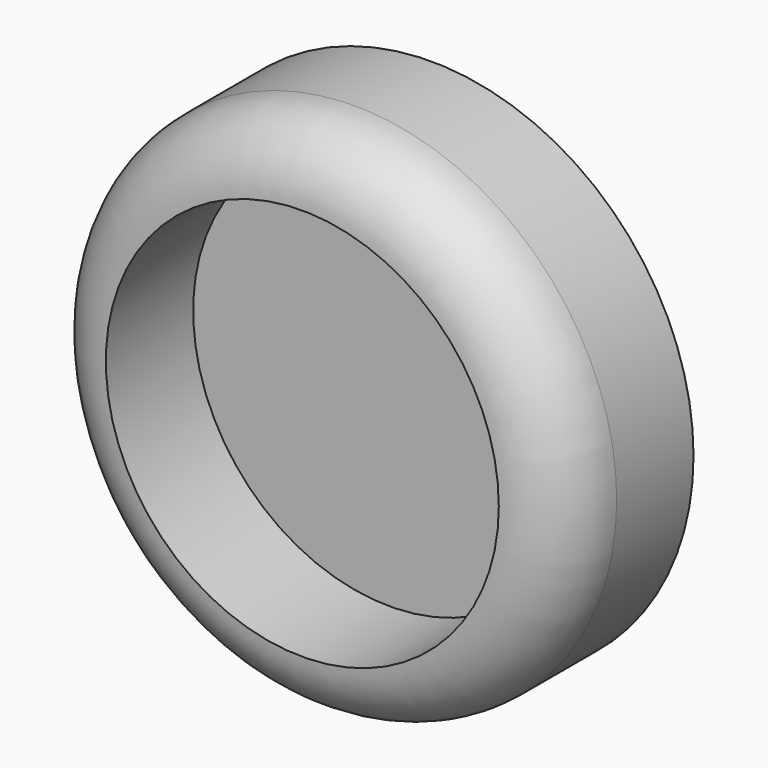
from build123d import *

# Parameters (mm, degrees)
F0_R     = 60
F1_DEPTH = 25
F2_DEPTH = 25
F3_DEPTH = 37
F4_R     = 15
F5_R     = 45
F6_DEPTH = 25


with BuildPart() as f1:
    # F0 (on Front) → F1 (new body)
    with BuildSketch(Plane.XZ):
        with Locations((20.5037463456, 3.3097660635)):
            Circle(F0_R)
    extrude(amount=F1_DEPTH)

    # F2 (add): faces of the model
    f2_faces = [f1.faces().sort_by_distance(p)[0] for p in [
        (20.5037463456, -25, 3.3097660635),
        (20.5037463456, 0, 3.3097660635),
    ]]
    extrude(f2_faces, amount=F2_DEPTH, dir=(0, -1, 0))

    # F3 (intersect): a face of the model
    f3_faces = [f1.faces().sort_by_distance(p)[0] for p in [
        (20.5037463456, -50, 3.3097660635),
    ]]
    extrude(f3_faces, amount=-F3_DEPTH, mode=Mode.INTERSECT)

    # F4
    f4_edges = [f1.edges().sort_by_distance(p)[0] for p in [
        (-39.496254, -50, 3.309766),
    ]]
    fillet(f4_edges, radius=F4_R)

    # F5 (on face) → F6 (cut)
    with BuildSketch(Plane.XZ.offset(50)):
        with Locations((20.5037463456, 3.3097660635)):
            Circle(F5_R)
    extrude(amount=-F6_DEPTH, mode=Mode.SUBTRACT)


solid = f1.part
